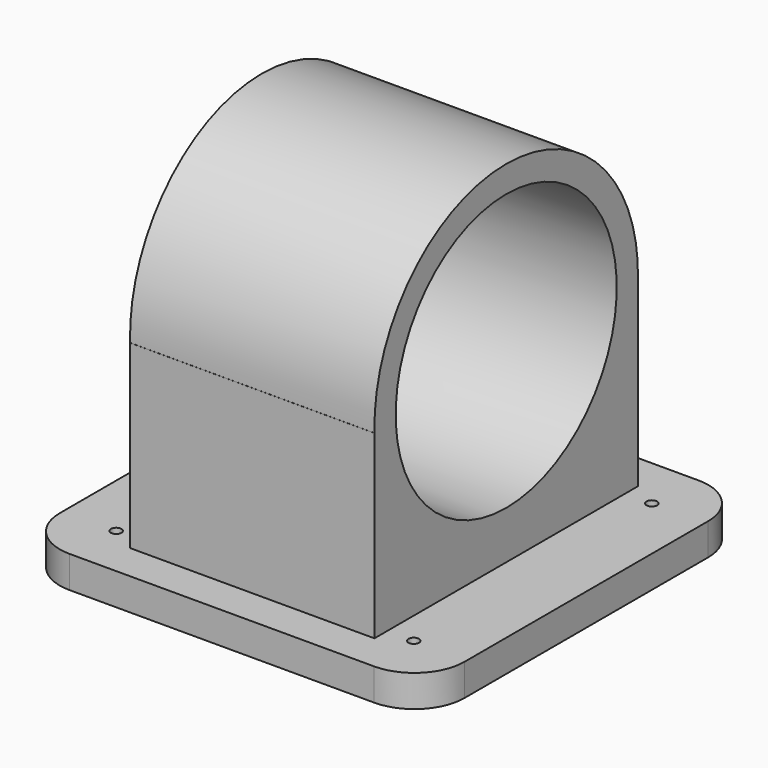
from build123d import *

# Parameters (mm, degrees)
CYLINDER023_R     = 13
CYLINDER023_DEPTH = 23
CYLINDER024_R     = 15.5
CYLINDER024_DEPTH = 23
CYLINDER025_R     = 13
CYLINDER025_DEPTH = 40
BOX001_W          = 23
BOX001_H          = 31
BOX001_DEPTH      = 20
SKETCH005_R       = 0.5
PAD004_DEPTH      = 3


with BuildPart() as cylinder023:
    # Cylinder023 → Cylinder023 (new body)
    with BuildSketch(Plane(origin=(0, 0, 7), x_dir=(0, 0, -1), z_dir=(1, 0, 0))):
        Circle(CYLINDER023_R)
    extrude(amount=CYLINDER023_DEPTH)


with BuildPart() as cut:
    # Cylinder024 → Cylinder024 (new body)
    with BuildSketch(Plane(origin=(0, 0, 7), x_dir=(0, 0, -1), z_dir=(1, 0, 0))):
        Circle(CYLINDER024_R)
    extrude(amount=CYLINDER024_DEPTH)

    # Cut: cut Cylinder023
    add(cylinder023.part, mode=Mode.SUBTRACT)


with BuildPart() as cut_1:
    # Cut placement: moved
    add(cut.part.moved(Location((-11.5, 0, 13.5))))


with BuildPart() as cylinder025:
    # Cylinder025 → Cylinder025 (new body)
    with BuildSketch(Plane(origin=(-17, 0, 20.5), x_dir=(0, 0, -1), z_dir=(1, 0, 0))):
        Circle(CYLINDER025_R)
    extrude(amount=CYLINDER025_DEPTH)


with BuildPart() as cut001:
    # Box001 → Box001 (new body)
    with BuildSketch(Plane(origin=(-11.5, -15.5, 0), x_dir=(1, 0, 0), z_dir=(0, 0, 1))):
        with Locations((11.5, 15.5)):
            Rectangle(BOX001_W, BOX001_H)
    extrude(amount=BOX001_DEPTH)

    # Cut001: cut Cylinder025
    add(cylinder025.part, mode=Mode.SUBTRACT)


with BuildPart() as obj1:
    # Sketch005 → Pad004 (new body)
    with BuildSketch(Plane.XY):
        with BuildLine():
            Line((-13.625988, 19), (14.385989, 19))
            ThreePointArc((19, 14.385989), (17.648587, 17.648587), (14.385989, 19))
            Line((19, 14.385989), (19, -14.278508))
            ThreePointArc((14.278508, -19), (17.617107, -17.617107), (19, -14.278508))
            Line((14.278508, -19), (-14.385989, -19))
            ThreePointArc((-19, -14.385989), (-17.648587, -17.648587), (-14.385989, -19))
            Line((-19, -14.385989), (-19, 13.625988))
            ThreePointArc((-13.625988, 19), (-17.425988, 17.425988), (-19, 13.625988))
        make_face()
        with Locations((-14, 14)):
            Circle(SKETCH005_R, mode=Mode.SUBTRACT)
        with Locations((14, 14)):
            Circle(SKETCH005_R, mode=Mode.SUBTRACT)
        with Locations((14, -14)):
            Circle(SKETCH005_R, mode=Mode.SUBTRACT)
        with Locations((-14, -14)):
            Circle(SKETCH005_R, mode=Mode.SUBTRACT)
    extrude(amount=PAD004_DEPTH)

    # Fusion027: union Cut, Cut001
    add(cut_1.part)
    add(cut001.part)


solid = obj1.part
